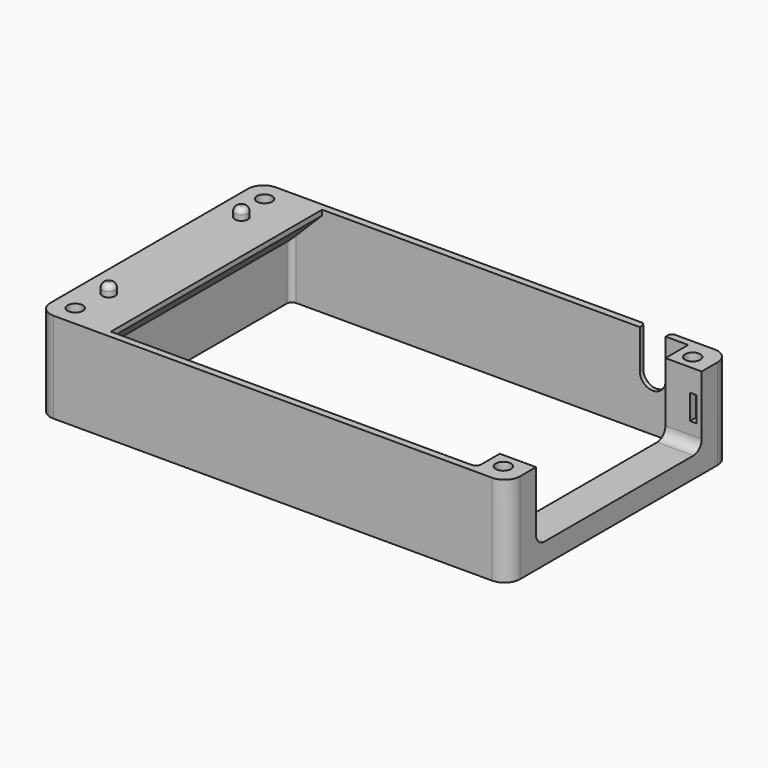
from build123d import *

# Parameters (mm, degrees)
SKETCH008_W     = 90.71
SKETCH008_H     = 53.7
SKETCH008_R     = 1.475
SKETCH008_W_2   = 76.71
SKETCH008_H_2   = 51
PAD002_DEPTH    = 17.5
FILLET001_R     = 3
SKETCH009_R     = 0.8
POCKET005_DEPTH = 5
SKETCH010_W     = 40
SKETCH010_H     = 13.5
POCKET006_DEPTH = 7
SKETCH012_W     = 6
SKETCH012_H     = 51
PAD003_DEPTH    = 1
CHAMFER_SIZE    = 5.99
SKETCH015_R     = 1.25
PAD004_DEPTH    = 2
FILLET005_R     = 1
FILLET006_R     = 1
FILLET007_R     = 2
SKETCH016_W     = 1.25
SKETCH016_H     = 4.821428
POCKET009_DEPTH = 1.5
CHAMFER002_SIZE = 0.5


with BuildPart() as part:
    # Sketch008 (on Face1 of CopyCopyHole) → Pad002 (new body)
    with BuildSketch(Plane(origin=(0, 0, -11.25), x_dir=(1, 0, 0), z_dir=(0, 0, -1))):
        with Locations((-2.23, 0)):
            Rectangle(SKETCH008_W, SKETCH008_H)
        with Locations((-43.585, 22.85)):
            Circle(SKETCH008_R, mode=Mode.SUBTRACT)
        with Locations((-43.585, -22.85)):
            Circle(SKETCH008_R, mode=Mode.SUBTRACT)
        with Locations((39.125, 22.85)):
            Circle(SKETCH008_R, mode=Mode.SUBTRACT)
        with Locations((39.125, -22.85)):
            Circle(SKETCH008_R, mode=Mode.SUBTRACT)
        with Locations((-2.23, 0)):
            Rectangle(SKETCH008_W_2, SKETCH008_H_2, mode=Mode.SUBTRACT)
    extrude(amount=PAD002_DEPTH)

    # Fillet001
    fillet001_edges = [part.edges().sort_by_distance(p)[0] for p in [
        (43.125, 26.85, -20),
        (-47.585, 26.85, -20),
        (-47.585, -26.85, -20),
        (43.125, -26.85, -20),
    ]]
    fillet(fillet001_edges, radius=FILLET001_R)

    # Sketch009 (on Face10 of Fillet001) → Pocket005 (cut)
    with BuildSketch(Plane(origin=(0, 26.85, 0), x_dir=(-1, 0, 0), z_dir=(0, 1, 0))):
        with Locations((-35.175, -17.75)):
            Circle(SKETCH009_R)
        with BuildLine():
            ThreePointArc((-31.775, -18.75), (-29.275, -21.25), (-26.775, -18.75))
            Line((-26.775, -18.75), (-26.775, -11.25))
            ThreePointArc((-26.775, -11.25), (-29.275, -8.75), (-31.775, -11.25))
            Line((-31.775, -18.75), (-31.775, -11.25))
        make_face()
    extrude(amount=-POCKET005_DEPTH, mode=Mode.SUBTRACT)

    # Sketch010 (on Face7 of Fillet001) → Pocket006 (cut)
    with BuildSketch(Plane.YZ.offset(43.125)):
        with Locations((0, -18)):
            Rectangle(SKETCH010_W, SKETCH010_H)
    extrude(amount=-POCKET006_DEPTH, mode=Mode.SUBTRACT)

    # Sketch012 (on Face2 of Pocket006) → Pad003 (join)
    with BuildSketch(Plane.XY.offset(-11.25)):
        with Locations((-37.585, 0)):
            Rectangle(SKETCH012_W, SKETCH012_H)
    extrude(amount=-PAD003_DEPTH)

    # Chamfer
    chamfer_edges = [part.edges().sort_by_distance(p)[0] for p in [
        (-40.585, 0, -12.25),
    ]]
    chamfer(chamfer_edges, length=CHAMFER_SIZE)

    # Sketch015 (on Face9 of Chamfer) → Pad004 (join)
    with BuildSketch(Plane.XY.offset(-11.25)):
        with Locations((-42.585, 16)):
            Circle(SKETCH015_R)
        with Locations((-42.585, -16)):
            Circle(SKETCH015_R)
    extrude(amount=PAD004_DEPTH)

    # Fillet005
    fillet005_edges = [part.edges().sort_by_distance(p)[0] for p in [
        (-43.835, -16, -9.25),
        (-43.835, 16, -9.25),
    ]]
    fillet(fillet005_edges, radius=FILLET005_R)

    # Fillet006
    fillet006_edges = [part.edges().sort_by_distance(p)[0] for p in [
        (36.125, -25.5, -20),
        (-40.585, -25.5, -23.495),
        (-40.585, 25.5, -23.495),
    ]]
    fillet(fillet006_edges, radius=FILLET006_R)

    # Fillet007
    fillet007_edges = [part.edges().sort_by_distance(p)[0] for p in [
        (39.625, 20, -24.75),
        (39.625, -20, -24.75),
    ]]
    fillet(fillet007_edges, radius=FILLET007_R)

    # Sketch016 (on Face9 of Fillet007) → Pocket009 (cut)
    with BuildSketch(Plane.XZ.offset(-20)):
        with Locations((41.5, -18)):
            Rectangle(SKETCH016_W, SKETCH016_H)
    pocket009 = extrude(amount=-POCKET009_DEPTH, mode=Mode.SUBTRACT)

    # Mirrored001: Pocket009 across XZ
    add(pocket009.mirror(Plane.XZ), mode=Mode.SUBTRACT)

    # Chamfer002
    chamfer002_edges = [part.edges().sort_by_distance(p)[0] for p in [
        (29.275, 26.85, -21.25),
    ]]
    chamfer(chamfer002_edges, length=CHAMFER002_SIZE)


solid = part.part
